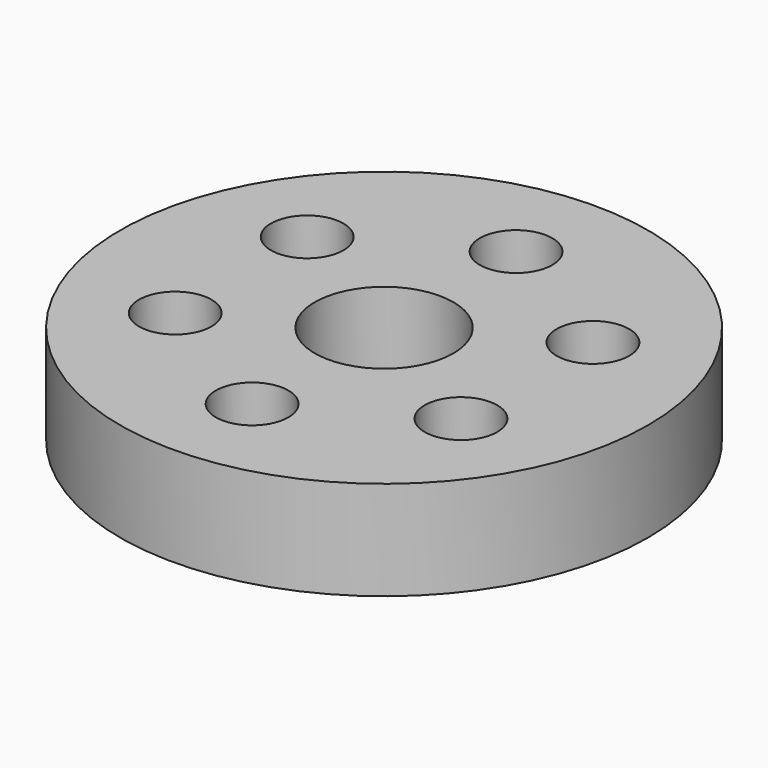
from build123d import *

# Parameters (mm, degrees)
F0_R     = 4
F1_DEPTH = 1.5
F2_R     = 0.55
F3_DEPTH = 0.75
F4_R     = 1.05
F5_DEPTH = 25


with BuildPart() as f1:
    # F0 (on Top) → F1 (new body)
    with BuildSketch(Plane.XY):
        Circle(F0_R)
    extrude(amount=F1_DEPTH)

    # F2 (on face) → F3 (cut)
    with BuildSketch(Plane.XY.offset(1.5)):
        with BuildLine():
            ThreePointArc((0, 1.95), (0.388909, 2.111091), (0.55, 2.5))
            ThreePointArc((0.55, 2.5), (-0.388909, 2.888909), (0, 1.95))
        make_face()
        with Locations((-2.165064, 1.25)):
            Circle(F2_R)
        with Locations((-2.165064, -1.25)):
            Circle(F2_R)
        with Locations((2.165064, 1.25)):
            Circle(F2_R)
        with Locations((2.165064, -1.25)):
            Circle(F2_R)
        with Locations((0, -2.5)):
            Circle(F2_R)
    extrude(amount=-F3_DEPTH, mode=Mode.SUBTRACT)

    # F4 (on face) → F5 (cut)
    with BuildSketch(Plane.XY.offset(1.5)):
        Circle(F4_R)
    extrude(amount=-F5_DEPTH, mode=Mode.SUBTRACT)


solid = f1.part
